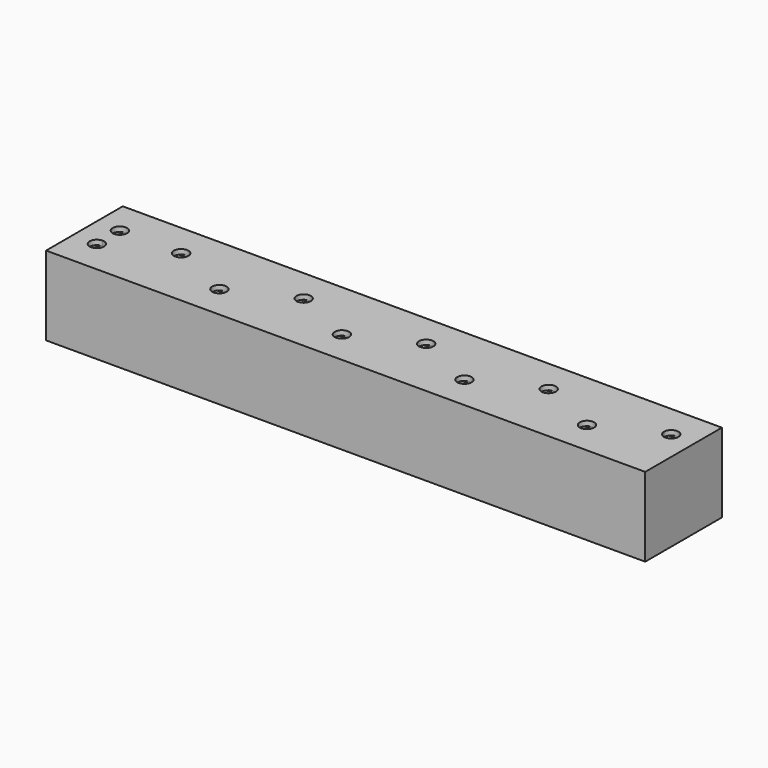
from build123d import *

# Parameters (mm, degrees)
F0_W     = 250
F0_H     = 40
F0_W_2   = 244
F0_H_2   = 34
F1_DEPTH = 3
F2_DEPTH = 1
F3_DEPTH = 30


with BuildPart() as f1:
    # F0 (on Top) → F1 (new body)
    with BuildSketch(Plane.XY):
        Rectangle(F0_W, F0_H)
        Rectangle(F0_W_2, F0_H_2, mode=Mode.SUBTRACT)
        Rectangle(F0_W_2, F0_H_2)
        Polygon((-109.1, 9.25), (-109.1, 6), (-95.34, 6), (-95.34, 9.25), (-83.54, 9.25), (-83.54, 6), (-44.22, 6), (-44.22, 9.25), (-32.42, 9.25), (-32.42, 6), (6.9, 6), (6.9, 9.25), (18.7, 9.25), (18.7, 6), (58.02, 6), (58.02, 9.25), (69.82, 9.25), (69.82, 6), (109.14, 6), (109.14, 9.25), (120.94, 9.25), (120.94, 2.75), (115, 2.75), (115, -6), (95.38, -6), (95.38, -9.25), (83.58, -9.25), (83.58, -6), (44.26, -6), (44.26, -9.25), (32.46, -9.25), (32.46, -6), (-6.86, -6), (-6.86, -9.25), (-18.66, -9.25), (-18.66, -6), (-57.98, -6), (-57.98, -9.25), (-69.78, -9.25), (-69.78, -6), (-109.1, -6), (-109.1, -9.25), (-120.9, -9.25), (-120.9, -2.75), (-115, -2.75), (-115, 2.75), (-120.9, 2.75), (-120.9, 9.25), align=None, mode=Mode.SUBTRACT)
        Polygon((-95.34, 6), (-109.1, 6), (-109.1, 2.75), (-115, 2.75), (-115, -2.75), (-109.1, -2.75), (-109.1, -6), (-69.78, -6), (-69.78, -2.75), (-57.98, -2.75), (-57.98, -6), (-18.66, -6), (-18.66, -2.75), (-6.86, -2.75), (-6.86, -6), (32.46, -6), (32.46, -2.75), (44.26, -2.75), (44.26, -6), (83.58, -6), (83.58, -2.75), (95.38, -2.75), (95.38, -6), (115, -6), (115, 2.75), (109.14, 2.75), (109.14, 6), (69.82, 6), (69.82, 2.75), (58.02, 2.75), (58.02, 6), (18.7, 6), (18.7, 2.75), (6.9, 2.75), (6.9, 6), (-32.42, 6), (-32.42, 2.75), (-44.22, 2.75), (-44.22, 6), (-83.54, 6), (-83.54, 2.75), (-95.34, 2.75), align=None)
        with BuildLine():
            Line((109.14, 9.25), (109.14, 6))
            Line((109.14, 6), (112.04, 6))
            ThreePointArc((112.04, 6), (115.04, 9), (118.04, 6))
            ThreePointArc((118.04, 6), (117.1471307506, 3.8645843496), (115, 3.0002666785))
            Line((115, 3.0002666785), (115, 2.75))
            Line((115, 2.75), (120.94, 2.75))
            Line((120.94, 2.75), (120.94, 9.25))
            Line((120.94, 9.25), (109.14, 9.25))
        make_face()
        with BuildLine():
            Line((-115, -3), (-115, -2.75))
            Line((-115, -2.75), (-120.9, -2.75))
            Line((-120.9, -2.75), (-120.9, -9.25))
            Line((-120.9, -9.25), (-109.1, -9.25))
            Line((-109.1, -9.25), (-109.1, -6))
            Line((-109.1, -6), (-112, -6))
            ThreePointArc((-112, -6), (-117.1213203436, -8.1213203436), (-115, -3))
        make_face()
        with BuildLine():
            ThreePointArc((-115, 3), (-117.1213203436, 8.1213203436), (-112, 6))
            Line((-112, 6), (-109.1, 6))
            Line((-109.1, 6), (-109.1, 9.25))
            Line((-109.1, 9.25), (-120.9, 9.25))
            Line((-120.9, 9.25), (-120.9, 2.75))
            Line((-120.9, 2.75), (-115, 2.75))
            Line((-115, 2.75), (-115, 3))
        make_face()
        with BuildLine():
            Line((-15.76, -6), (-18.66, -6))
            Line((-18.66, -6), (-18.66, -9.25))
            Line((-18.66, -9.25), (-6.86, -9.25))
            Line((-6.86, -9.25), (-6.86, -6))
            Line((-6.86, -6), (-9.76, -6))
            ThreePointArc((-9.76, -6), (-12.76, -9), (-15.76, -6))
        make_face()
        with BuildLine():
            Line((-18.66, -2.75), (-18.66, -6))
            Line((-18.66, -6), (-15.76, -6))
            ThreePointArc((-15.76, -6), (-12.76, -3), (-9.76, -6))
            Line((-9.76, -6), (-6.86, -6))
            Line((-6.86, -6), (-6.86, -2.75))
            Line((-6.86, -2.75), (-18.66, -2.75))
        make_face()
        with BuildLine():
            Line((35.36, -6), (32.46, -6))
            Line((32.46, -6), (32.46, -9.25))
            Line((32.46, -9.25), (44.26, -9.25))
            Line((44.26, -9.25), (44.26, -6))
            Line((44.26, -6), (41.36, -6))
            ThreePointArc((41.36, -6), (38.36, -9), (35.36, -6))
        make_face()
        with BuildLine():
            Line((32.46, -2.75), (32.46, -6))
            Line((32.46, -6), (35.36, -6))
            ThreePointArc((35.36, -6), (38.36, -3), (41.36, -6))
            Line((41.36, -6), (44.26, -6))
            Line((44.26, -6), (44.26, -2.75))
            Line((44.26, -2.75), (32.46, -2.75))
        make_face()
        with BuildLine():
            Line((-92.44, 6), (-95.34, 6))
            Line((-95.34, 6), (-95.34, 2.75))
            Line((-95.34, 2.75), (-83.54, 2.75))
            Line((-83.54, 2.75), (-83.54, 6))
            Line((-83.54, 6), (-86.44, 6))
            ThreePointArc((-86.44, 6), (-89.44, 3), (-92.44, 6))
        make_face()
        with BuildLine():
            Line((-95.34, 9.25), (-95.34, 6))
            Line((-95.34, 6), (-92.44, 6))
            ThreePointArc((-92.44, 6), (-89.44, 9), (-86.44, 6))
            Line((-86.44, 6), (-83.54, 6))
            Line((-83.54, 6), (-83.54, 9.25))
            Line((-83.54, 9.25), (-95.34, 9.25))
        make_face()
        with BuildLine():
            Line((60.92, 6), (58.02, 6))
            Line((58.02, 6), (58.02, 2.75))
            Line((58.02, 2.75), (69.82, 2.75))
            Line((69.82, 2.75), (69.82, 6))
            Line((69.82, 6), (66.92, 6))
            ThreePointArc((66.92, 6), (63.92, 3), (60.92, 6))
        make_face()
        with BuildLine():
            Line((58.02, 9.25), (58.02, 6))
            Line((58.02, 6), (60.92, 6))
            ThreePointArc((60.92, 6), (63.92, 9), (66.92, 6))
            Line((66.92, 6), (69.82, 6))
            Line((69.82, 6), (69.82, 9.25))
            Line((69.82, 9.25), (58.02, 9.25))
        make_face()
        with BuildLine():
            Line((86.48, -6), (83.58, -6))
            Line((83.58, -6), (83.58, -9.25))
            Line((83.58, -9.25), (95.38, -9.25))
            Line((95.38, -9.25), (95.38, -6))
            Line((95.38, -6), (92.48, -6))
            ThreePointArc((92.48, -6), (89.48, -9), (86.48, -6))
        make_face()
        with BuildLine():
            Line((83.58, -2.75), (83.58, -6))
            Line((83.58, -6), (86.48, -6))
            ThreePointArc((86.48, -6), (89.48, -3), (92.48, -6))
            Line((92.48, -6), (95.38, -6))
            Line((95.38, -6), (95.38, -2.75))
            Line((95.38, -2.75), (83.58, -2.75))
        make_face()
        with BuildLine():
            Line((9.8, 6), (6.9, 6))
            Line((6.9, 6), (6.9, 2.75))
            Line((6.9, 2.75), (18.7, 2.75))
            Line((18.7, 2.75), (18.7, 6))
            Line((18.7, 6), (15.8, 6))
            ThreePointArc((15.8, 6), (12.8, 3), (9.8, 6))
        make_face()
        with BuildLine():
            Line((6.9, 9.25), (6.9, 6))
            Line((6.9, 6), (9.8, 6))
            ThreePointArc((9.8, 6), (12.8, 9), (15.8, 6))
            Line((15.8, 6), (18.7, 6))
            Line((18.7, 6), (18.7, 9.25))
            Line((18.7, 9.25), (6.9, 9.25))
        make_face()
        with BuildLine():
            Line((-41.32, 6), (-44.22, 6))
            Line((-44.22, 6), (-44.22, 2.75))
            Line((-44.22, 2.75), (-32.42, 2.75))
            Line((-32.42, 2.75), (-32.42, 6))
            Line((-32.42, 6), (-35.32, 6))
            ThreePointArc((-35.32, 6), (-38.32, 3), (-41.32, 6))
        make_face()
        with BuildLine():
            Line((-44.22, 9.25), (-44.22, 6))
            Line((-44.22, 6), (-41.32, 6))
            ThreePointArc((-41.32, 6), (-38.32, 9), (-35.32, 6))
            Line((-35.32, 6), (-32.42, 6))
            Line((-32.42, 6), (-32.42, 9.25))
            Line((-32.42, 9.25), (-44.22, 9.25))
        make_face()
        with BuildLine():
            Line((-66.88, -6), (-69.78, -6))
            Line((-69.78, -6), (-69.78, -9.25))
            Line((-69.78, -9.25), (-57.98, -9.25))
            Line((-57.98, -9.25), (-57.98, -6))
            Line((-57.98, -6), (-60.88, -6))
            ThreePointArc((-60.88, -6), (-63.88, -9), (-66.88, -6))
        make_face()
        with BuildLine():
            Line((-69.78, -2.75), (-69.78, -6))
            Line((-69.78, -6), (-66.88, -6))
            ThreePointArc((-66.88, -6), (-63.88, -3), (-60.88, -6))
            Line((-60.88, -6), (-57.98, -6))
            Line((-57.98, -6), (-57.98, -2.75))
            Line((-57.98, -2.75), (-69.78, -2.75))
        make_face()
        with BuildLine():
            Line((-109.1, -2.75), (-115, -2.75))
            Line((-115, -2.75), (-115, -3))
            ThreePointArc((-115, -3), (-112.8786796564, -3.8786796564), (-112, -6))
            Line((-112, -6), (-109.1, -6))
            Line((-109.1, -6), (-109.1, -2.75))
        make_face()
        with BuildLine():
            Line((-109.1, 6), (-112, 6))
            ThreePointArc((-112, 6), (-112.8786796564, 3.8786796564), (-115, 3))
            Line((-115, 3), (-115, 2.75))
            Line((-115, 2.75), (-109.1, 2.75))
            Line((-109.1, 2.75), (-109.1, 6))
        make_face()
        with BuildLine():
            Line((112.04, 6), (109.14, 6))
            Line((109.14, 6), (109.14, 2.75))
            Line((109.14, 2.75), (115, 2.75))
            Line((115, 2.75), (115, 3.0002666785))
            ThreePointArc((115, 3.0002666785), (112.9045843496, 3.8928692494), (112.04, 6))
        make_face()
    extrude(amount=F1_DEPTH)

    # F0 (on Top) → F2 (cut)
    with BuildSketch(Plane.XY):
        with BuildLine():
            Line((60.92, 6), (58.02, 6))
            Line((58.02, 6), (58.02, 2.75))
            Line((58.02, 2.75), (69.82, 2.75))
            Line((69.82, 2.75), (69.82, 6))
            Line((69.82, 6), (66.92, 6))
            ThreePointArc((66.92, 6), (63.92, 3), (60.92, 6))
        make_face()
        with BuildLine():
            Line((58.02, 9.25), (58.02, 6))
            Line((58.02, 6), (60.92, 6))
            ThreePointArc((60.92, 6), (63.92, 9), (66.92, 6))
            Line((66.92, 6), (69.82, 6))
            Line((69.82, 6), (69.82, 9.25))
            Line((69.82, 9.25), (58.02, 9.25))
        make_face()
        with BuildLine():
            Line((35.36, -6), (32.46, -6))
            Line((32.46, -6), (32.46, -9.25))
            Line((32.46, -9.25), (44.26, -9.25))
            Line((44.26, -9.25), (44.26, -6))
            Line((44.26, -6), (41.36, -6))
            ThreePointArc((41.36, -6), (38.36, -9), (35.36, -6))
        make_face()
        with BuildLine():
            Line((32.46, -2.75), (32.46, -6))
            Line((32.46, -6), (35.36, -6))
            ThreePointArc((35.36, -6), (38.36, -3), (41.36, -6))
            Line((41.36, -6), (44.26, -6))
            Line((44.26, -6), (44.26, -2.75))
            Line((44.26, -2.75), (32.46, -2.75))
        make_face()
        with BuildLine():
            Line((9.8, 6), (6.9, 6))
            Line((6.9, 6), (6.9, 2.75))
            Line((6.9, 2.75), (18.7, 2.75))
            Line((18.7, 2.75), (18.7, 6))
            Line((18.7, 6), (15.8, 6))
            ThreePointArc((15.8, 6), (12.8, 3), (9.8, 6))
        make_face()
        with BuildLine():
            Line((6.9, 9.25), (6.9, 6))
            Line((6.9, 6), (9.8, 6))
            ThreePointArc((9.8, 6), (12.8, 9), (15.8, 6))
            Line((15.8, 6), (18.7, 6))
            Line((18.7, 6), (18.7, 9.25))
            Line((18.7, 9.25), (6.9, 9.25))
        make_face()
        with BuildLine():
            Line((-15.76, -6), (-18.66, -6))
            Line((-18.66, -6), (-18.66, -9.25))
            Line((-18.66, -9.25), (-6.86, -9.25))
            Line((-6.86, -9.25), (-6.86, -6))
            Line((-6.86, -6), (-9.76, -6))
            ThreePointArc((-9.76, -6), (-12.76, -9), (-15.76, -6))
        make_face()
        with BuildLine():
            Line((-18.66, -2.75), (-18.66, -6))
            Line((-18.66, -6), (-15.76, -6))
            ThreePointArc((-15.76, -6), (-12.76, -3), (-9.76, -6))
            Line((-9.76, -6), (-6.86, -6))
            Line((-6.86, -6), (-6.86, -2.75))
            Line((-6.86, -2.75), (-18.66, -2.75))
        make_face()
        with BuildLine():
            Line((83.58, -2.75), (83.58, -6))
            Line((83.58, -6), (86.48, -6))
            ThreePointArc((86.48, -6), (89.48, -3), (92.48, -6))
            Line((92.48, -6), (95.38, -6))
            Line((95.38, -6), (95.38, -2.75))
            Line((95.38, -2.75), (83.58, -2.75))
        make_face()
        with BuildLine():
            Line((112.04, 6), (109.14, 6))
            Line((109.14, 6), (109.14, 2.75))
            Line((109.14, 2.75), (115, 2.75))
            Line((115, 2.75), (115, 3.0002666785))
            ThreePointArc((115, 3.0002666785), (112.9045843496, 3.8928692494), (112.04, 6))
        make_face()
        with BuildLine():
            Line((-41.32, 6), (-44.22, 6))
            Line((-44.22, 6), (-44.22, 2.75))
            Line((-44.22, 2.75), (-32.42, 2.75))
            Line((-32.42, 2.75), (-32.42, 6))
            Line((-32.42, 6), (-35.32, 6))
            ThreePointArc((-35.32, 6), (-38.32, 3), (-41.32, 6))
        make_face()
        with BuildLine():
            Line((-44.22, 9.25), (-44.22, 6))
            Line((-44.22, 6), (-41.32, 6))
            ThreePointArc((-41.32, 6), (-38.32, 9), (-35.32, 6))
            Line((-35.32, 6), (-32.42, 6))
            Line((-32.42, 6), (-32.42, 9.25))
            Line((-32.42, 9.25), (-44.22, 9.25))
        make_face()
        with BuildLine():
            Line((-66.88, -6), (-69.78, -6))
            Line((-69.78, -6), (-69.78, -9.25))
            Line((-69.78, -9.25), (-57.98, -9.25))
            Line((-57.98, -9.25), (-57.98, -6))
            Line((-57.98, -6), (-60.88, -6))
            ThreePointArc((-60.88, -6), (-63.88, -9), (-66.88, -6))
        make_face()
        with BuildLine():
            Line((-69.78, -2.75), (-69.78, -6))
            Line((-69.78, -6), (-66.88, -6))
            ThreePointArc((-66.88, -6), (-63.88, -3), (-60.88, -6))
            Line((-60.88, -6), (-57.98, -6))
            Line((-57.98, -6), (-57.98, -2.75))
            Line((-57.98, -2.75), (-69.78, -2.75))
        make_face()
        with BuildLine():
            Line((-92.44, 6), (-95.34, 6))
            Line((-95.34, 6), (-95.34, 2.75))
            Line((-95.34, 2.75), (-83.54, 2.75))
            Line((-83.54, 2.75), (-83.54, 6))
            Line((-83.54, 6), (-86.44, 6))
            ThreePointArc((-86.44, 6), (-89.44, 3), (-92.44, 6))
        make_face()
        with BuildLine():
            Line((-95.34, 9.25), (-95.34, 6))
            Line((-95.34, 6), (-92.44, 6))
            ThreePointArc((-92.44, 6), (-89.44, 9), (-86.44, 6))
            Line((-86.44, 6), (-83.54, 6))
            Line((-83.54, 6), (-83.54, 9.25))
            Line((-83.54, 9.25), (-95.34, 9.25))
        make_face()
        with BuildLine():
            Line((-109.1, 6), (-112, 6))
            ThreePointArc((-112, 6), (-112.8786796564, 3.8786796564), (-115, 3))
            Line((-115, 3), (-115, 2.75))
            Line((-115, 2.75), (-109.1, 2.75))
            Line((-109.1, 2.75), (-109.1, 6))
        make_face()
        with BuildLine():
            Line((-115, -3), (-115, -2.75))
            Line((-115, -2.75), (-120.9, -2.75))
            Line((-120.9, -2.75), (-120.9, -9.25))
            Line((-120.9, -9.25), (-109.1, -9.25))
            Line((-109.1, -9.25), (-109.1, -6))
            Line((-109.1, -6), (-112, -6))
            ThreePointArc((-112, -6), (-117.1213203436, -8.1213203436), (-115, -3))
        make_face()
        with BuildLine():
            Line((109.14, 9.25), (109.14, 6))
            Line((109.14, 6), (112.04, 6))
            ThreePointArc((112.04, 6), (115.04, 9), (118.04, 6))
            ThreePointArc((118.04, 6), (117.1471307506, 3.8645843496), (115, 3.0002666785))
            Line((115, 3.0002666785), (115, 2.75))
            Line((115, 2.75), (120.94, 2.75))
            Line((120.94, 2.75), (120.94, 9.25))
            Line((120.94, 9.25), (109.14, 9.25))
        make_face()
        with BuildLine():
            Line((86.48, -6), (83.58, -6))
            Line((83.58, -6), (83.58, -9.25))
            Line((83.58, -9.25), (95.38, -9.25))
            Line((95.38, -9.25), (95.38, -6))
            Line((95.38, -6), (92.48, -6))
            ThreePointArc((92.48, -6), (89.48, -9), (86.48, -6))
        make_face()
        with BuildLine():
            ThreePointArc((-115, 3), (-117.1213203436, 8.1213203436), (-112, 6))
            Line((-112, 6), (-109.1, 6))
            Line((-109.1, 6), (-109.1, 9.25))
            Line((-109.1, 9.25), (-120.9, 9.25))
            Line((-120.9, 9.25), (-120.9, 2.75))
            Line((-120.9, 2.75), (-115, 2.75))
            Line((-115, 2.75), (-115, 3))
        make_face()
        with BuildLine():
            Line((-109.1, -2.75), (-115, -2.75))
            Line((-115, -2.75), (-115, -3))
            ThreePointArc((-115, -3), (-112.8786796564, -3.8786796564), (-112, -6))
            Line((-112, -6), (-109.1, -6))
            Line((-109.1, -6), (-109.1, -2.75))
        make_face()
    extrude(amount=F2_DEPTH, mode=Mode.SUBTRACT)

    # F0 (on Top) → F3 (join)
    with BuildSketch(Plane.XY):
        Rectangle(F0_W, F0_H)
        Rectangle(F0_W_2, F0_H_2, mode=Mode.SUBTRACT)
    extrude(amount=-F3_DEPTH)


solid = f1.part
